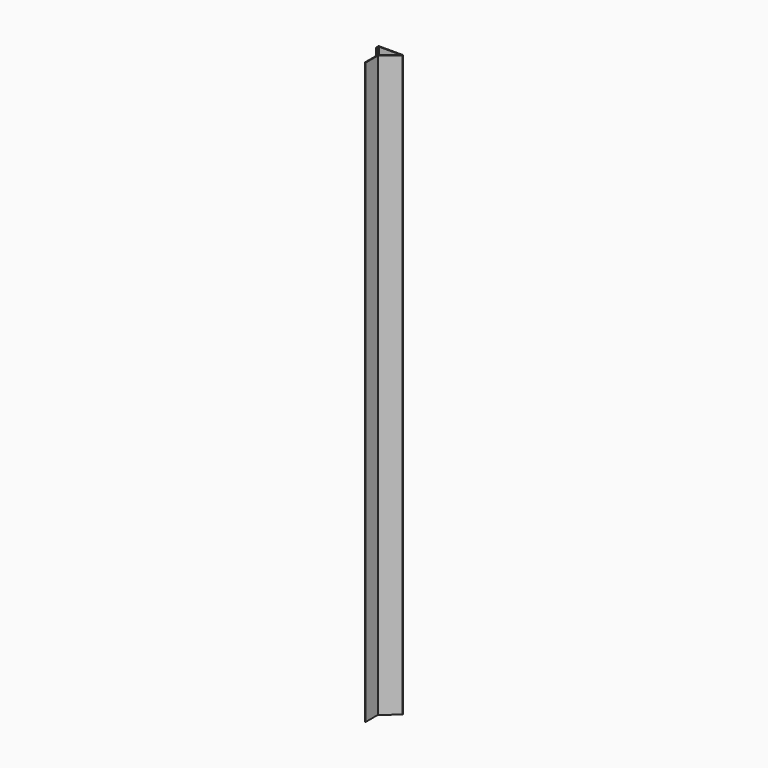
from build123d import *

# Parameters (mm, degrees)
F1_DEPTH = 4673.6
F2_R     = 3


with BuildPart() as f1:
    # F0 (on Top) → F1 (new body)
    with BuildSketch(Plane.XY):
        Polygon((0, 127), (0, 0), (6.35, 0), (6.35, 124.038946), (130.961011, 228.6), (-72.238989, 228.6), (-72.238989, 203.2), (-65.888989, 203.2), (-65.888989, 222.25), (113.51453, 222.25), align=None)
    extrude(amount=F1_DEPTH)

    # F2
    f2_edges = [f1.edges().sort_by_distance(p)[0] for p in [
        (-72.238989, 203.2, 2336.8),
        (-72.238989, 228.6, 2336.8),
        (130.961011, 228.6, 2336.8),
        (0, 0, 2336.8),
        (6.35, 0, 2336.8),
        (0, 127, 2336.8),
        (6.35, 124.038946, 2336.8),
        (113.51453, 222.25, 2336.8),
        (-65.888989, 222.25, 2336.8),
        (-65.888989, 203.2, 2336.8),
    ]]
    fillet(f2_edges, radius=F2_R)


solid = f1.part
